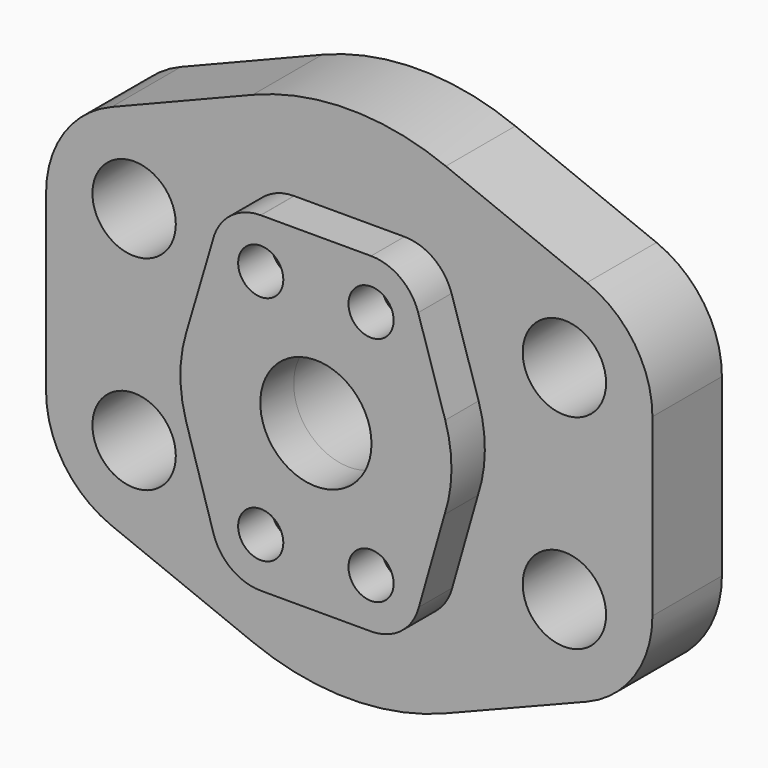
from build123d import *

# Parameters (mm, degrees)
F0_R     = 12
F0_R_2   = 16
F1_DEPTH = 25
F2_R     = 6.5
F2_R_2   = 16
F3_DEPTH = 12


with BuildPart() as f1:
    # F0 (on Front) → F1 (new body)
    with BuildSketch(Plane.XZ):
        with BuildLine():
            Line((-87.249, 25.178074), (-87.249, -25.178074))
            ThreePointArc((-87.249, -25.178074), (-82.098121, -41.986441), (-68.414255, -53.02295))
            Line((-68.414255, -53.02295), (-27.792552, -69.311464))
            ThreePointArc((-27.792552, -69.311464), (-0.104916, -74.675926), (27.597685, -69.389284))
            Line((27.597685, -69.389284), (68.33597, -53.186749))
            ThreePointArc((68.33597, -53.186749), (82.074482, -42.153872), (87.249, -25.31061))
            Line((87.249, -25.31061), (87.249, 25.178074))
            ThreePointArc((87.249, 25.178074), (82.098121, 41.986441), (68.414255, 53.02295))
            Line((68.414255, 53.02295), (27.792552, 69.311464))
            ThreePointArc((27.792552, 69.311464), (0, 74.676), (-27.792552, 69.311464))
            Line((-27.792552, 69.311464), (-68.414255, 53.02295))
            ThreePointArc((-68.414255, 53.02295), (-82.098121, 41.986441), (-87.249, 25.178074))
        make_face()
        with Locations((-61.9125, -29.3616)):
            Circle(F0_R, mode=Mode.SUBTRACT)
        with Locations((61.9135, -29.3616)):
            Circle(F0_R, mode=Mode.SUBTRACT)
        with Locations((-61.9125, 29.3624)):
            Circle(F0_R, mode=Mode.SUBTRACT)
        Circle(F0_R_2, mode=Mode.SUBTRACT)
        with Locations((61.9135, 29.3624)):
            Circle(F0_R, mode=Mode.SUBTRACT)
    extrude(amount=F1_DEPTH)


with BuildPart() as f3:
    # F2 (on face) → F3 (new body)
    with BuildSketch(Plane.XZ.offset(25)):
        with BuildLine():
            Line((-37.425588, -11.397668), (-29.481993, -37.481402))
            ThreePointArc((-29.481993, -37.481402), (-24.341356, -44.767417), (-15.873461, -47.5615))
            Line((-15.873461, -47.5615), (15.563904, -47.558098))
            Line((15.563904, -47.558098), (16.189174, -47.55803))
            ThreePointArc((16.189174, -47.55803), (24.684946, -44.50473), (29.631836, -36.952971))
            Line((29.631836, -36.952971), (37.030543, -11.051606))
            ThreePointArc((37.030543, -11.051606), (39.019338, 0.909089), (37.225295, 12.900542))
            Line((37.225295, 12.900542), (29.441887, 37.610878))
            ThreePointArc((29.441887, 37.610878), (24.287412, 44.807177), (15.87498, 47.5615))
            Line((15.87498, 47.5615), (-15.839058, 47.561455))
            Line((-15.839058, 47.561455), (-15.910983, 47.561454))
            ThreePointArc((-15.910983, 47.561454), (-24.814089, 44.401625), (-29.773919, 36.36111))
            Line((-29.773919, 36.36111), (-37.267052, 11.019159))
            ThreePointArc((-37.267052, 11.019159), (-38.997794, -0.177575), (-37.425588, -11.397668))
        make_face()
        with Locations((-15.875, -33.3375)):
            Circle(F2_R, mode=Mode.SUBTRACT)
        with Locations((15.875, -33.3375)):
            Circle(F2_R, mode=Mode.SUBTRACT)
        with Locations((-15.875, 33.3375)):
            Circle(F2_R, mode=Mode.SUBTRACT)
        Circle(F2_R_2, mode=Mode.SUBTRACT)
        with Locations((15.875, 33.3375)):
            Circle(F2_R, mode=Mode.SUBTRACT)
    extrude(amount=F3_DEPTH)


solid = Compound([f1.part, f3.part])
